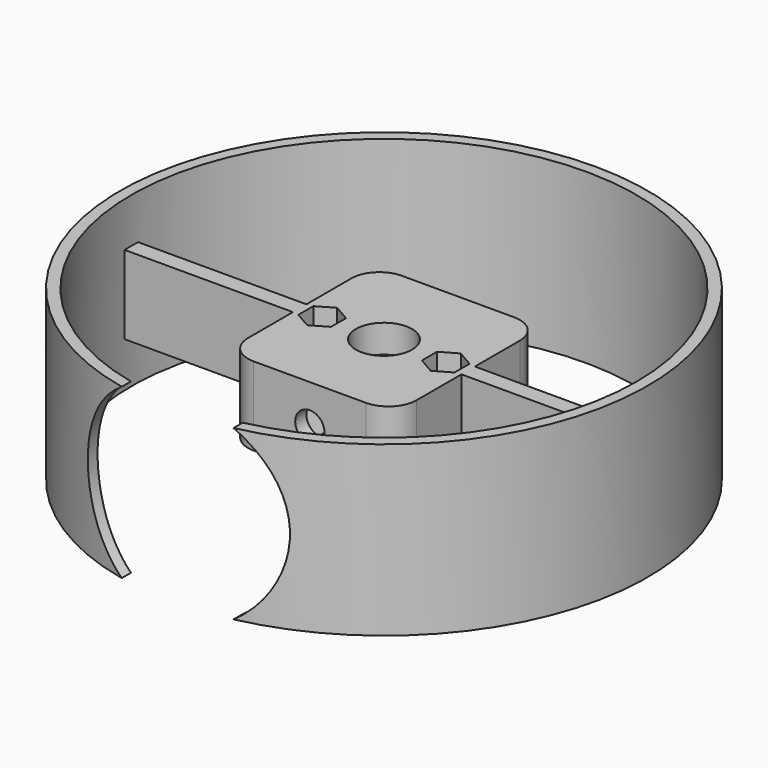
from build123d import *

# Parameters (mm, degrees)
SKETCH_R        = 47
SKETCH_R_2      = 45
PAD_DEPTH       = 15
PAD001_DEPTH    = 7
SKETCH002_R     = 18
POCKET_DEPTH    = 30.501
SKETCH003_R     = 5
SKETCH003_R_2   = 1.7
POCKET001_DEPTH = 22.001
SKETCH004_R     = 8.2
POCKET002_DEPTH = 9
SKETCH005_W     = 30.6
SKETCH005_H     = 7
POCKET003_DEPTH = 4
POCKET004_DEPTH = 7
POCKET005_DEPTH = 14
SKETCH008_R     = 2.6
POCKET006_DEPTH = 5


with BuildPart() as part:
    # Sketch → Pad (new body, symmetric)
    with BuildSketch(Plane.XY):
        Circle(SKETCH_R)
        Circle(SKETCH_R_2, mode=Mode.SUBTRACT)
    extrude(amount=PAD_DEPTH, both=True)

    # Sketch001 → Pad001 (join, symmetric)
    with BuildSketch(Plane.XY):
        with BuildLine():
            Line((-44.974993, 1.5), (-15, 1.5))
            Line((-15, 1.5), (-15, 11.5))
            ThreePointArc((-10, 16.5), (-13.535534, 15.035534), (-15, 11.5))
            Line((-10, 16.5), (10, 16.5))
            ThreePointArc((15, 11.5), (13.535534, 15.035534), (10, 16.5))
            Line((15, 11.5), (15, 1.5))
            Line((15, 1.5), (44.974993, 1.5))
            ThreePointArc((44.974993, -1.5), (45, 0), (44.974993, 1.5))
            Line((15, -1.5), (44.974993, -1.5))
            Line((15, -11.5), (15, -1.5))
            ThreePointArc((10, -16.5), (13.535534, -15.035534), (15, -11.5))
            Line((-10, -16.5), (10, -16.5))
            ThreePointArc((-15, -11.5), (-13.535534, -15.035534), (-10, -16.5))
            Line((-15, -1.5), (-15, -11.5))
            Line((-44.974993, -1.5), (-15, -1.5))
            ThreePointArc((-44.974993, 1.5), (-45, 0), (-44.974993, -1.5))
        make_face()
    extrude(amount=PAD001_DEPTH, both=True)

    # Sketch002 (on Face18 of Pad001) → Pocket (cut, through all)
    with BuildSketch(Plane.XZ.offset(16.5)):
        Circle(SKETCH002_R)
    extrude(amount=POCKET_DEPTH, mode=Mode.SUBTRACT)

    # Sketch003 (on Face7 of Pocket) → Pocket001 (cut, through all)
    with BuildSketch(Plane(origin=(0, 0, -7), x_dir=(1, 0, 0), z_dir=(0, 0, -1))):
        Circle(SKETCH003_R)
        with Locations((-11, 0)):
            Circle(SKETCH003_R_2)
        with Locations((11, 0)):
            Circle(SKETCH003_R_2)
    extrude(amount=-POCKET001_DEPTH, mode=Mode.SUBTRACT)

    # Sketch004 (on Face7 of Pocket001) → Pocket002 (cut)
    with BuildSketch(Plane(origin=(0, 0, -7), x_dir=(1, 0, 0), z_dir=(0, 0, -1))):
        Circle(SKETCH004_R)
    extrude(amount=-POCKET002_DEPTH, mode=Mode.SUBTRACT)

    # Sketch005 (on Face7 of Pocket002) → Pocket003 (cut)
    with BuildSketch(Plane(origin=(0, 0, -7), x_dir=(1, 0, 0), z_dir=(0, 0, -1))):
        Rectangle(SKETCH005_W, SKETCH005_H)
    extrude(amount=-POCKET003_DEPTH, mode=Mode.SUBTRACT)

    # Sketch006 (on Face9 of Pocket003) → Pocket004 (cut)
    with BuildSketch(Plane.XY.offset(7)):
        Polygon((-8.098815, -1.675), (-8.098815, 1.675), (-11, 3.35), (-13.901185, 1.675), (-13.901185, -1.675), (-11, -3.35), align=None)
        Polygon((11, -3.35), (13.901185, -1.675), (13.901185, 1.675), (11, 3.35), (8.098815, 1.675), (8.098815, -1.675), align=None)
    extrude(amount=-POCKET004_DEPTH, mode=Mode.SUBTRACT)

    # Sketch007 → Pocket005 (cut)
    with BuildSketch(Plane.XZ):
        Polygon((2.5, 4.330127), (-2.5, 4.330127), (-5, 0), (-2.5, -4.330127), (2.5, -4.330127), (5, 0), align=None)
    extrude(amount=POCKET005_DEPTH, mode=Mode.SUBTRACT)

    # Sketch008 (on Face23 of Pocket005) → Pocket006 (cut)
    with BuildSketch(Plane.XZ.offset(16.5)):
        Circle(SKETCH008_R)
    extrude(amount=-POCKET006_DEPTH, mode=Mode.SUBTRACT)


solid = part.part
